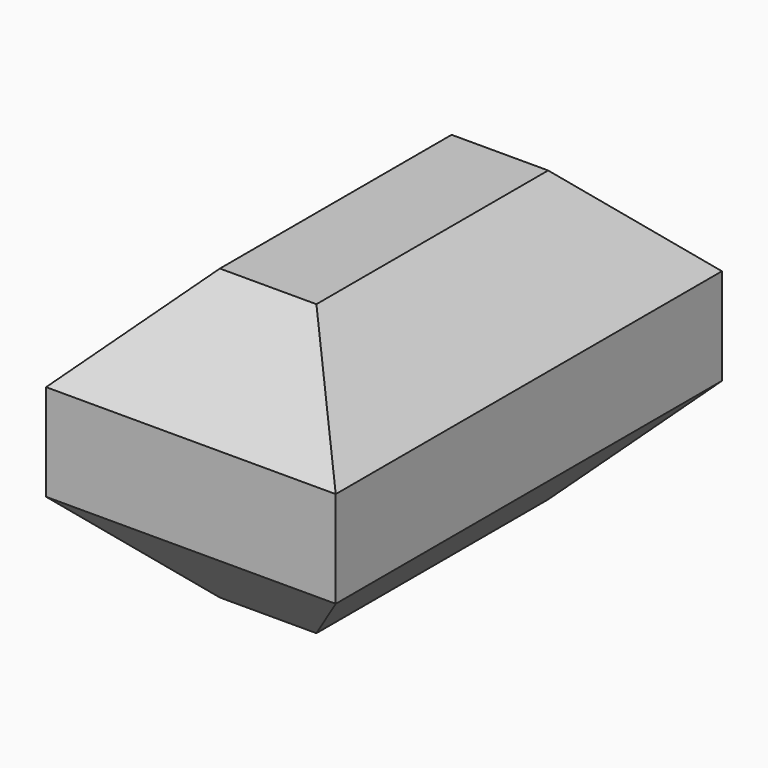
from build123d import *

# Parameters (mm, degrees)
F0_W     = 15.24
F0_H     = 15.24
F1_DEPTH = 12.7
F2_SIZE  = 5.08


with BuildPart() as f1:
    # F0 (on Front) → F1 (new body, symmetric)
    with BuildSketch(Plane.XZ):
        Rectangle(F0_W, F0_H)
    extrude(amount=F1_DEPTH, both=True)

    # F2
    f2_edges = [f1.edges().sort_by_distance(p)[0] for p in [
        (0, -12.7, 7.62),
        (7.62, 0, 7.62),
        (0, 12.7, 7.62),
        (-7.62, 0, 7.62),
        (0, -12.7, -7.62),
        (-7.62, 0, -7.62),
        (7.62, 0, -7.62),
        (0, 12.7, -7.62),
    ]]
    chamfer(f2_edges, length=F2_SIZE)


solid = f1.part
